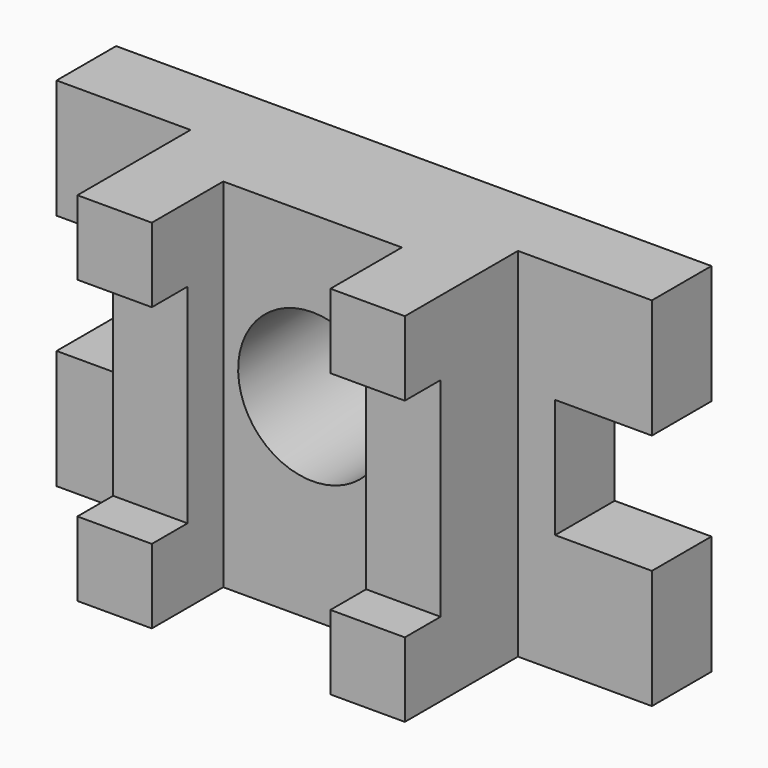
from build123d import *

# Parameters (mm, degrees)
F0_W      = 31.75
F0_H      = 31.75
F1_DEPTH  = 92.075
F2_DEPTH  = 92.075
F3_DEPTH  = 92.075
F4_DEPTH  = 92.075
F5_DEPTH  = 31.75
F6_DEPTH  = 31.75
F0_H_2    = 88.9
F7_DEPTH  = 73.025
F8_DEPTH  = 73.025
F9_DEPTH  = 53.975
F10_DEPTH = 53.975


with BuildPart() as f1:
    # F0 (on Front) → F1 (new body)
    with BuildSketch(Plane.XZ):
        with Locations((-53.975, 52.588235)):
            Rectangle(F0_W, F0_H)
    extrude(amount=F1_DEPTH)



with BuildPart() as f2:
    # F0 (on Front) → F2 (new body)
    with BuildSketch(Plane.XZ):
        with Locations((-53.975, -68.061765)):
            Rectangle(F0_W, F0_H)
    extrude(amount=F2_DEPTH)


with BuildPart() as f3:
    # F0 (on Front) → F3 (new body)
    with BuildSketch(Plane.XZ):
        with Locations((53.975, -68.061765)):
            Rectangle(F0_W, F0_H)
    extrude(amount=F3_DEPTH)



with BuildPart() as f4:
    # F0 (on Front) → F4 (new body)
    with BuildSketch(Plane.XZ):
        with Locations((53.975, 52.588235)):
            Rectangle(F0_W, F0_H)
    extrude(amount=F4_DEPTH)


with BuildPart() as f3_1:
    add(f3.part)

    add(f4.part)  # F5 merges F4
    # F0 (on Front) → F5 (join)
    with BuildSketch(Plane.XZ):
        Polygon((127, 68.463235), (69.85, 68.463235), (69.85, 36.713235), (69.85, -52.186765), (69.85, -83.936765), (111.125, -83.936765), (127, -83.936765), (127, -33.136765), (85.725, -33.136765), (85.725, 17.663235), (127, 17.663235), align=None)
    extrude(amount=F5_DEPTH)


with BuildPart() as f1_1:
    add(f1.part)

    add(f2.part)  # F6 merges F2
    # F0 (on Front) → F6 (join)
    with BuildSketch(Plane.XZ):
        Polygon((-69.85, 36.713235), (-69.85, 68.463235), (-127, 68.463235), (-127, 17.663235), (-85.725, 17.663235), (-85.725, -33.136765), (-127, -33.136765), (-127, -83.936765), (-69.85, -83.936765), (-69.85, -52.186765), align=None)
    extrude(amount=F6_DEPTH)



with BuildPart() as f7:
    # F0 (on Front) → F7 (new body)
    with BuildSketch(Plane.XZ):
        with Locations((-53.975, -7.736765)):
            Rectangle(F0_W, F0_H_2)
    extrude(amount=F7_DEPTH)


with BuildPart() as f8:
    # F0 (on Front) → F8 (new body)
    with BuildSketch(Plane.XZ):
        with Locations((53.975, -7.736765)):
            Rectangle(F0_W, F0_H_2)
    extrude(amount=F8_DEPTH)


with BuildPart() as f1_2:
    add(f1_1.part)

    add(f7.part)  # F9 merges F7
    # F0 (on Front) → F9 (join)
    with BuildSketch(Plane.XZ):
        with BuildLine():
            Line((0, 31.75), (0, 68.463235))
            Line((0, 68.463235), (-38.1, 68.463235))
            Line((-38.1, 68.463235), (-38.1, 36.713235))
            Line((-38.1, 36.713235), (-38.1, -52.186765))
            Line((-38.1, -52.186765), (-38.1, -83.936765))
            Line((-38.1, -83.936765), (0, -83.936765))
            Line((0, -83.936765), (0, -79.190681))
            Line((0, -79.190681), (0, -31.75))
            ThreePointArc((0, -31.75), (-31.75, 0), (0, 31.75))
        make_face()
    extrude(amount=F9_DEPTH)


    add(f3_1.part)  # F10 merges F3

    add(f8.part)  # F10 merges F8
    # F0 (on Front) → F10 (join)
    with BuildSketch(Plane.XZ):
        with BuildLine():
            Line((38.1, 68.463235), (0, 68.463235))
            Line((0, 68.463235), (0, 31.75))
            ThreePointArc((0, 31.75), (31.75, 0), (0, -31.75))
            Line((0, -31.75), (0, -79.190681))
            Line((0, -79.190681), (0, -83.936765))
            Line((0, -83.936765), (38.1, -83.936765))
            Line((38.1, -83.936765), (38.1, -52.186765))
            Line((38.1, -52.186765), (38.1, 36.713235))
            Line((38.1, 36.713235), (38.1, 68.463235))
        make_face()
    extrude(amount=F10_DEPTH)


solid = f1_2.part
